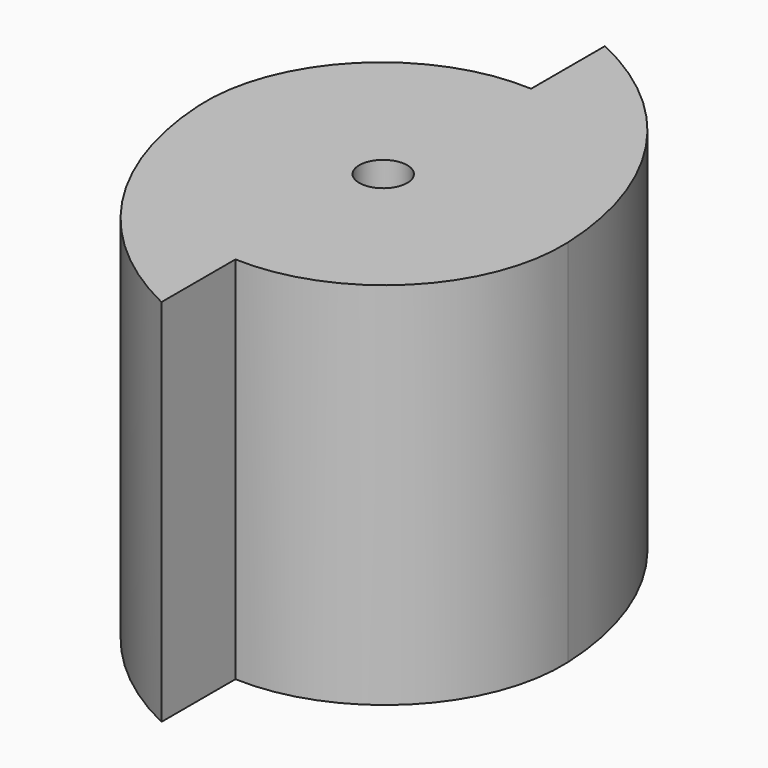
from build123d import *

# Parameters (mm, degrees)
F0_R     = 3.302
F1_DEPTH = 50.8


with BuildPart() as f1:
    # F0 (on Top) → F1 (new body)
    with BuildSketch(Plane.XY):
        with BuildLine():
            Line((0, 38.09591), (0, 25.4))
            ThreePointArc((0, 25.4), (-18.385862, 18.385862), (-25.4, 0))
            ThreePointArc((-25.4, 0), (-17.885437, -22.511421), (0, -38.110904))
            Line((0, -38.110904), (0, -25.4))
            ThreePointArc((0, -25.4), (18.282432, -18.282432), (25.4, 0))
            ThreePointArc((25.4, 0), (18.024739, 22.598162), (0, 38.09591))
        make_face()
        Circle(F0_R, mode=Mode.SUBTRACT)
    extrude(amount=F1_DEPTH)


solid = f1.part
